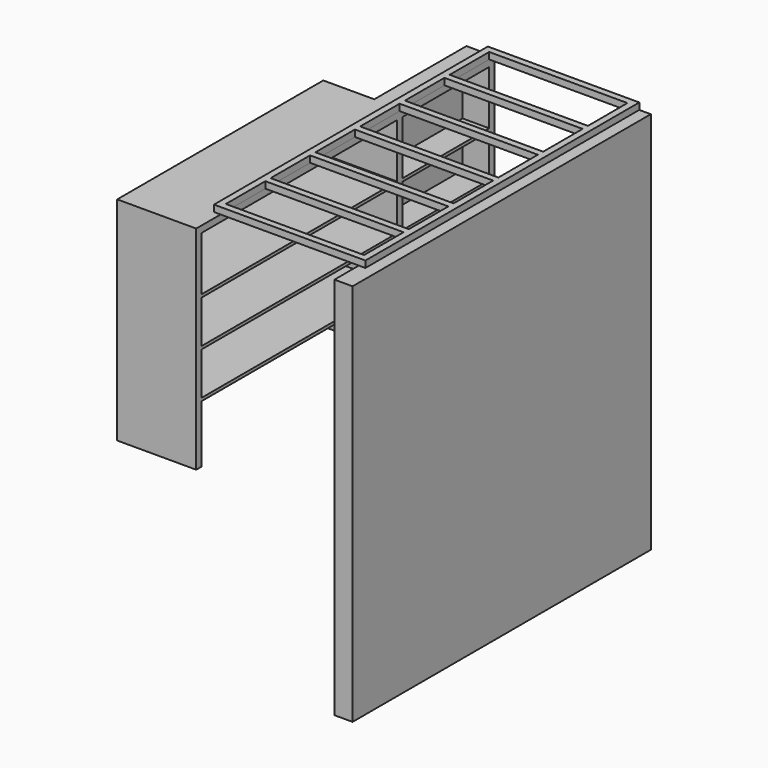
from build123d import *

# Parameters (mm, degrees)
F1_DEPTH  = 2330
F2_W      = 2185
F2_H      = 250
F2_H_2    = 386
F3_DEPTH  = 102
F5_DEPTH  = 480
F6_W      = 660
F6_H      = 350
F6_H_2    = 259
F6_H_3    = 328
F7_DEPTH  = 162
F6_W_2    = 1485
F8_DEPTH  = 472
F9_W      = 840
F9_H      = 40
F10_DEPTH = 40


with BuildPart() as f1:
    # F0 (on Top) → F1 (new body)
    with BuildSketch(Plane.XY):
        Polygon((-110, 0), (0, 0), (0, 789.6427494474), (0, 2265), (-110, 2265), (-110, 789.6427494474), align=None)
    extrude(amount=F1_DEPTH)

    # F2 (on face) → F3 (cut)
    with BuildSketch(Plane(origin=(-110, 0, 0), x_dir=(0, -1, 0), z_dir=(-1, 0, 0))):
        with Locations((-1132.5, 2186.9966740608)):
            Rectangle(F2_W, F2_H)
        with Locations((-1132.5, 1918.9966740608)):
            Rectangle(F2_W, F2_H)
        with Locations((-1132.5, 1650.9966740608)):
            Rectangle(F2_W, F2_H)
        with Locations((-1132.5, 1382.9966740608)):
            Rectangle(F2_W, F2_H)
        with Locations((-1132.5, 1114.9966740608)):
            Rectangle(F2_W, F2_H)
        with Locations((-1132.5, 846.9966740608)):
            Rectangle(F2_W, F2_H)
        with Locations((-1132.5, 578.9966740608)):
            Rectangle(F2_W, F2_H)
        with Locations((-1132.5, 242.9966740608)):
            Rectangle(F2_W, F2_H_2)
    extrude(amount=-F3_DEPTH, mode=Mode.SUBTRACT)


with BuildPart() as f1b:
    # F0 (on Top) → F1, piece 2 (new body)
    with BuildSketch(Plane.XY):
        Polygon((-950, 2265), (-1120, 2265), (-1120, 1565), (-1430, 1565), (-1430, 0), (-1120, 0), (-950, 0), align=None)
    extrude(amount=F1_DEPTH)

    # F4 (on face) → F5 (cut)
    with BuildSketch(Plane.YZ.offset(-950)):
        Polygon((2265, 1040), (0, 1040), (0, 0), (1565, 0), (2265, 0), align=None)
    extrude(amount=-F5_DEPTH, mode=Mode.SUBTRACT)

    # F6 (on face) → F7 (cut)
    with BuildSketch(Plane.YZ.offset(-950)):
        with Locations((1895, 1215)):
            Rectangle(F6_W, F6_H)
        with Locations((1895, 1537.5)):
            Rectangle(F6_W, F6_H_2)
        with Locations((1895, 1814.5)):
            Rectangle(F6_W, F6_H_2)
        with Locations((1895, 2126)):
            Rectangle(F6_W, F6_H_3)
    extrude(amount=-F7_DEPTH, mode=Mode.SUBTRACT)

    # F6 (on face) → F8 (cut)
    with BuildSketch(Plane.YZ.offset(-950)):
        with Locations((782.5, 1215)):
            Rectangle(F6_W_2, F6_H)
        with Locations((782.5, 1537.5)):
            Rectangle(F6_W_2, F6_H_2)
        with Locations((782.5, 1814.5)):
            Rectangle(F6_W_2, F6_H_2)
        with Locations((782.5, 2126)):
            Rectangle(F6_W_2, F6_H_3)
    extrude(amount=-F8_DEPTH, mode=Mode.SUBTRACT)


with BuildPart() as f10:
    # F9 (on face) → F10 (new body)
    with BuildSketch(Plane.XY.offset(2330)):
        with Locations((-530, 1905)):
            Rectangle(F9_W, F9_H)
        with Locations((-530, 1565)):
            Rectangle(F9_W, F9_H)
        with Locations((-530, 1225)):
            Rectangle(F9_W, F9_H)
        with Locations((-530, 885)):
            Rectangle(F9_W, F9_H)
        with Locations((-530, 205)):
            Rectangle(F9_W, F9_H)
        with Locations((-530, 545)):
            Rectangle(F9_W, F9_H)
        Polygon((-110, 225), (-110, 185), (-70, 185), (-70, 2265), (-110, 2265), (-110, 2225), (-110, 1925), (-110, 1885), (-110, 1585), (-110, 1545), (-110, 1245), (-110, 1205), (-110, 905), (-110, 865), (-110, 565), (-110, 525), align=None)
        Polygon((-990, 185), (-950, 185), (-950, 225), (-950, 525), (-950, 565), (-950, 865), (-950, 905), (-950, 1205), (-950, 1245), (-950, 1545), (-950, 1585), (-950, 1885), (-950, 1925), (-950, 2225), (-950, 2265), (-990, 2265), align=None)
        with Locations((-530, 2245)):
            Rectangle(F9_W, F9_H)
    extrude(amount=F10_DEPTH)


solid = Compound([f1.part, f1b.part, f10.part])
